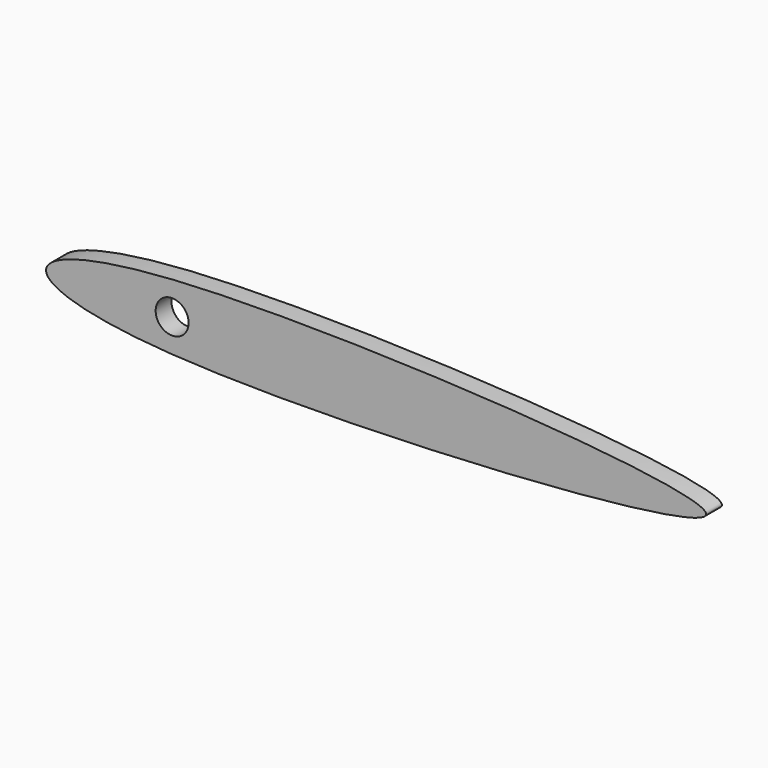
from build123d import *

# Parameters (mm, degrees)
F0_R     = 2.5
F1_DEPTH = 3


with BuildPart() as f1:
    # F0 (on Front) → F1 (new body)
    with BuildSketch(Plane.XZ):
        with BuildLine():
            add(Edge.make_bspline(
                [(0, 0), (0, 2.0779451115), (18.4854444013, 8.3662274), (154.5783010627, 0), (18.4854444013, -8.3662274), (0, -2.0779451115), (0, 0)],
                knots=[0, 0, 0, 0, 0.165223587, 0.5, 0.834776413, 1, 1, 1, 1], degree=3))
        make_face()
        with Locations((19.0994106233, 0)):
            Circle(F0_R, mode=Mode.SUBTRACT)
    extrude(amount=F1_DEPTH)


solid = f1.part
